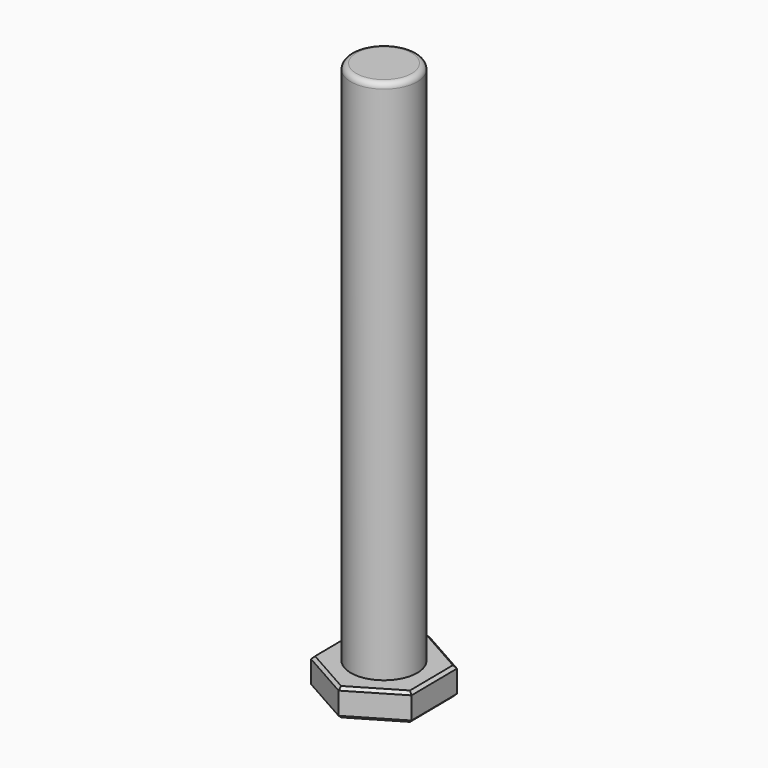
from build123d import *

# Parameters (mm, degrees)
F0_R      = 6
F1_DEPTH  = 95
F1_FACE_R = 6
F2_DEPTH  = 5
F3_R      = 1
F4_SIZE   = 0.5


with BuildPart() as f1:
    # F0 (on Top) → F1 (new body)
    with BuildSketch(Plane.XY):
        Circle(F0_R)
    extrude(amount=F1_DEPTH)

    # F0 (on Top) + F1_face (on face) → F2 (join)
    with BuildSketch(Plane.XY):
        Polygon((8.9462464611, 5.2881635996), (-0.1065607861, 10.3917585037), (-9.0528072472, 5.103594904), (-8.9462464611, -5.2881635996), (0.1065607861, -10.3917585037), (9.0528072472, -5.103594904), align=None)
        Circle(F0_R, mode=Mode.SUBTRACT)
    with BuildSketch(Plane(origin=(0, 0, 0), x_dir=(1, 0, 0), z_dir=(0, 0, -1))):
        Circle(F1_FACE_R)
    extrude(amount=-F2_DEPTH, dir=(0, 0, 1))

    # F3
    f3_edges = [f1.edges().sort_by_distance(p)[0] for p in [
        (-6, 0, 95),
    ]]
    fillet(f3_edges, radius=F3_R)

    # F4
    f4_edges = [f1.edges().sort_by_distance(p)[0] for p in [
        (4.419843, 7.839961, -5),
        (-4.579684, 7.747677, -5),
        (-8.999527, -0.092284, -5),
        (-4.419843, -7.839961, -5),
        (4.579684, -7.747677, -5),
        (8.999527, 0.092284, -5),
        (-4.579684, 7.747677, 0),
        (-8.999527, -0.092284, 0),
        (-4.419843, -7.839961, 0),
        (4.579684, -7.747677, 0),
        (4.419843, 7.839961, 0),
        (8.999527, 0.092284, 0),
    ]]
    chamfer(f4_edges, length=F4_SIZE)


solid = f1.part
